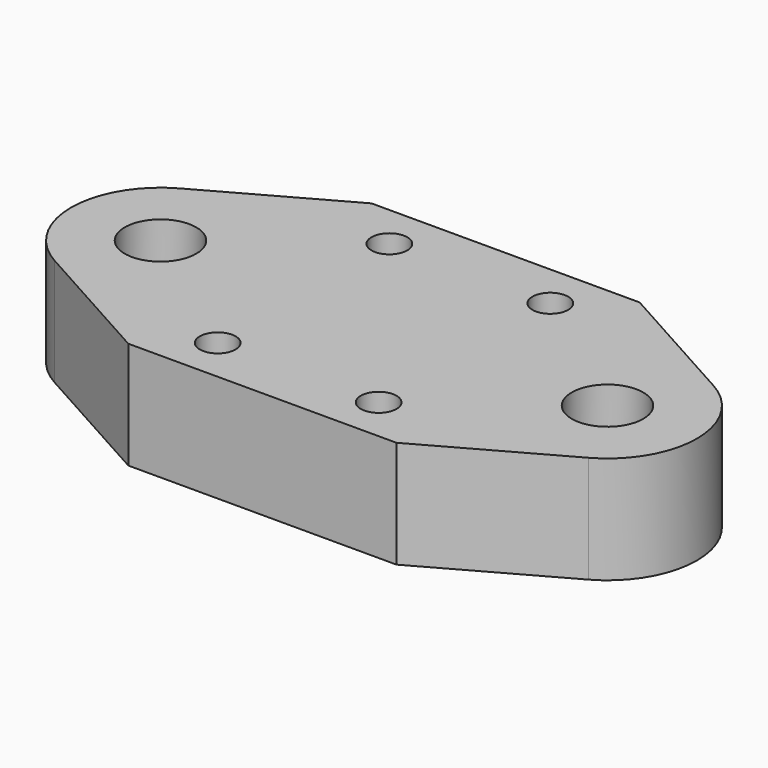
from build123d import *

# Parameters (mm, degrees)
SKETCH_R     = 4
SKETCH_R_2   = 2
PAD_DEPTH    = 12
POCKET_DEPTH = 6


with BuildPart() as part:
    # Sketch → Pad (new body)
    with BuildSketch(Plane.XY):
        with BuildLine():
            Line((-15, 17), (15, 17))
            Line((15, 17), (29.858612, 8.74036))
            ThreePointArc((29.858612, -8.74036), (35, 0), (29.858612, 8.74036))
            Line((15, -17), (29.858612, -8.74036))
            Line((15, -17), (-15, -17))
            Line((-15, -17), (-29.858612, -8.74036))
            ThreePointArc((-29.858612, 8.74036), (-35, 0), (-29.858612, -8.74036))
            Line((-15, 17), (-29.858612, 8.74036))
        make_face()
        with Locations((-25, 0)):
            Circle(SKETCH_R, mode=Mode.SUBTRACT)
        with Locations((25, 0)):
            Circle(SKETCH_R, mode=Mode.SUBTRACT)
        with Locations((-9, 12)):
            Circle(SKETCH_R_2, mode=Mode.SUBTRACT)
        with Locations((9, 12)):
            Circle(SKETCH_R_2, mode=Mode.SUBTRACT)
        with Locations((9, -12)):
            Circle(SKETCH_R_2, mode=Mode.SUBTRACT)
        with Locations((-9, -12)):
            Circle(SKETCH_R_2, mode=Mode.SUBTRACT)
    extrude(amount=PAD_DEPTH)

    # Sketch001 (on Face15 of Pad) → Pocket (cut)
    with BuildSketch(Plane(origin=(0, 0, 0), x_dir=(1, 0, 0), z_dir=(0, 0, -1))):
        Polygon((-28.839379, 6.65), (-32.678759, 0), (-28.839379, -6.65), (-21.160621, -6.65), (-17.321241, 0), (-21.160621, 6.65), align=None)
        Polygon((17.321241, 0), (21.160621, -6.65), (28.839379, -6.65), (32.678759, 0), (28.839379, 6.65), (21.160621, 6.65), align=None)
    extrude(amount=-POCKET_DEPTH, mode=Mode.SUBTRACT)


solid = part.part
